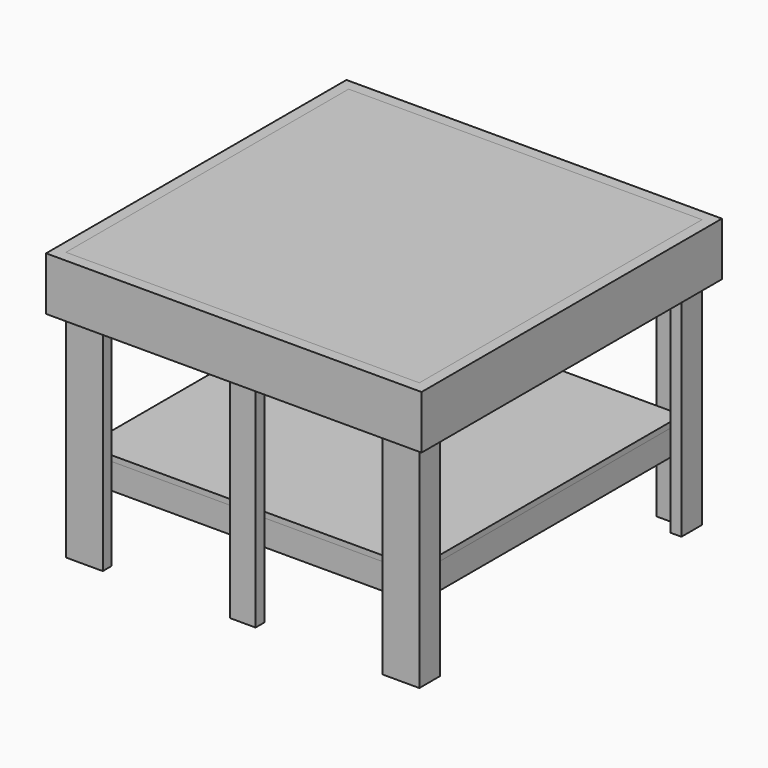
from build123d import *

# Parameters (mm, degrees)
F2_W      = 88.9
F2_H      = 38.1
F3_DEPTH  = 793.75
F4_W      = 38.1
F4_H      = 1066.8
F5_DEPTH  = 88.9
F6_W      = 1143
F6_H      = 1143
F7_DEPTH  = 19.05
F8_W      = 38.1
F8_H      = 1143
F9_DEPTH  = 88.9
F10_W     = 1219.2
F10_H     = 1219.2
F11_DEPTH = 44.45
F12_W     = 38.1
F12_H     = 1219.2
F13_DEPTH = 184.15


with BuildPart() as f3:
    # F2 (on Top) → F3 (new body)
    with BuildSketch(Plane.XY):
        with Locations((120.65, 2127.25)):
            Rectangle(F2_W, F2_H)
        Polygon((76.2, 2108.2), (76.2, 2146.3), (38.1, 2146.3), (38.1, 2057.4), (76.2, 2057.4), align=None)
        Polygon((1257.3, 2057.4), (1257.3, 2146.3), (1219.2, 2146.3), (1219.2, 2108.2), (1219.2, 2057.4), align=None)
        with Locations((1174.75, 2127.25)):
            Rectangle(F2_W, F2_H)
        Polygon((1219.2, 927.1), (1257.3, 927.1), (1257.3, 1016), (1219.2, 1016), (1219.2, 965.2), align=None)
        with Locations((1174.75, 946.15)):
            Rectangle(F2_W, F2_H)
        Polygon((38.1, 927.1), (76.2, 927.1), (76.2, 965.2), (76.2, 1016), (38.1, 1016), align=None)
        with Locations((120.65, 946.15)):
            Rectangle(F2_W, F2_H)
        with Locations((647.7, 2127.25)):
            Rectangle(F2_W, F2_H)
        with Locations((647.7, 946.15)):
            Rectangle(F2_W, F2_H)
    extrude(amount=F3_DEPTH)


with BuildPart() as f5:
    # F4 (on offset) → F5 (new body)
    with BuildSketch(Plane.XY.offset(228.6)):
        Polygon((114.3, 2070.1), (114.3, 2108.2), (76.2, 2108.2), (76.2, 965.2), (114.3, 965.2), (114.3, 1003.3), align=None)
        Polygon((1181.1, 2108.2), (114.3, 2108.2), (114.3, 2070.1), (628.65, 2070.1), (666.75, 2070.1), (1181.1, 2070.1), align=None)
        Polygon((1219.2, 2108.2), (1181.1, 2108.2), (1181.1, 2070.1), (1181.1, 1003.3), (1181.1, 965.2), (1219.2, 965.2), align=None)
        Polygon((628.65, 1003.3), (114.3, 1003.3), (114.3, 965.2), (1181.1, 965.2), (1181.1, 1003.3), (666.75, 1003.3), align=None)
        with Locations((647.7, 1536.7)):
            Rectangle(F4_W, F4_H)
    extrude(amount=F5_DEPTH)


with BuildPart() as f7:
    # F6 (on face) → F7 (new body)
    with BuildSketch(Plane.XY.offset(317.5)):
        with Locations((647.7, 1536.7)):
            Rectangle(F6_W, F6_H)
    extrude(amount=F7_DEPTH)


with BuildPart() as f9:
    # F8 (on face) → F9 (new body)
    with BuildSketch(Plane.XY.offset(793.75)):
        Polygon((76.2, 2146.3), (38.1, 2146.3), (38.1, 927.1), (76.2, 927.1), (76.2, 965.2), (76.2, 2108.2), align=None)
        Polygon((1219.2, 2146.3), (76.2, 2146.3), (76.2, 2108.2), (333.375, 2108.2), (371.475, 2108.2), (628.65, 2108.2), (666.75, 2108.2), (923.925, 2108.2), (962.025, 2108.2), (1219.2, 2108.2), align=None)
        Polygon((1257.3, 2146.3), (1219.2, 2146.3), (1219.2, 2108.2), (1219.2, 965.2), (1219.2, 927.1), (1257.3, 927.1), align=None)
        Polygon((76.2, 965.2), (76.2, 927.1), (1219.2, 927.1), (1219.2, 965.2), (962.025, 965.2), (923.925, 965.2), (666.75, 965.2), (628.65, 965.2), (371.475, 965.2), (333.375, 965.2), align=None)
        with Locations((352.425, 1536.7)):
            Rectangle(F8_W, F8_H)
        with Locations((647.7, 1536.7)):
            Rectangle(F8_W, F8_H)
        with Locations((942.975, 1536.7)):
            Rectangle(F8_W, F8_H)
    extrude(amount=F9_DEPTH)

    # F10 (on face) → F11 (join)
    with BuildSketch(Plane.XY.offset(882.65)):
        with Locations((647.7, 1536.7)):
            Rectangle(F10_W, F10_H)
    extrude(amount=F11_DEPTH)


with BuildPart() as f13:
    # F12 (on face) → F13 (new body)
    with BuildSketch(Plane.XY.offset(927.1)):
        Polygon((1295.4, 2184.4), (0, 2184.4), (0, 2146.3), (38.1, 2146.3), (1257.3, 2146.3), (1295.4, 2146.3), align=None)
        with Locations((19.05, 1536.7)):
            Rectangle(F12_W, F12_H)
        with Locations((1276.35, 1536.7)):
            Rectangle(F12_W, F12_H)
        Polygon((38.1, 927.1), (0, 927.1), (0, 889), (1295.4, 889), (1295.4, 927.1), (1257.3, 927.1), align=None)
    extrude(amount=-F13_DEPTH)


solid = Compound([f3.part, f5.part, f7.part, f9.part, f13.part])
